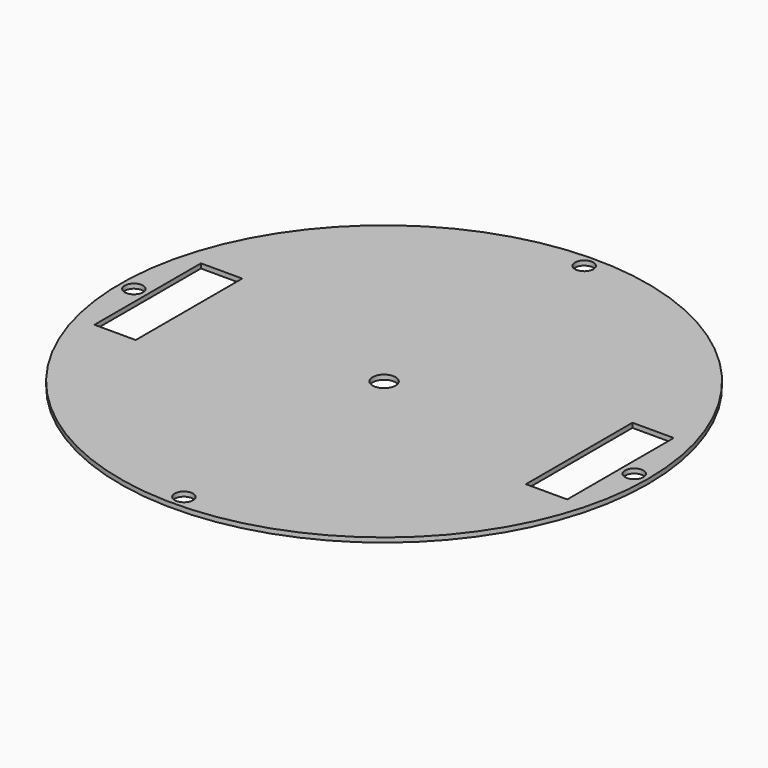
from build123d import *

# Parameters (mm, degrees)
F0_R     = 73.025
F0_R_2   = 2.54
F0_R_3   = 3.175
F1_DEPTH = 1.27
F2_W     = 11.43
F2_H     = 36.83
F3_DEPTH = 1.271


with BuildPart() as f1:
    # F0 (on Top) → F1 (new body)
    with BuildSketch(Plane.XY):
        Circle(F0_R)
        with Locations((0, -69.215)):
            Circle(F0_R_2, mode=Mode.SUBTRACT)
        with Locations((-69.215, 0)):
            Circle(F0_R_2, mode=Mode.SUBTRACT)
        Circle(F0_R_3, mode=Mode.SUBTRACT)
        with Locations((69.215, 0)):
            Circle(F0_R_2, mode=Mode.SUBTRACT)
        with Locations((0, 69.215)):
            Circle(F0_R_2, mode=Mode.SUBTRACT)
    extrude(amount=F1_DEPTH)

    # F2 (on face) → F3 (cut, through all)
    with BuildSketch(Plane.XY.offset(1.27)):
        with Locations((-59.69, 0)):
            Rectangle(F2_W, F2_H)
        with Locations((59.69, 0)):
            Rectangle(F2_W, F2_H)
    extrude(amount=-F3_DEPTH, mode=Mode.SUBTRACT)


solid = f1.part
